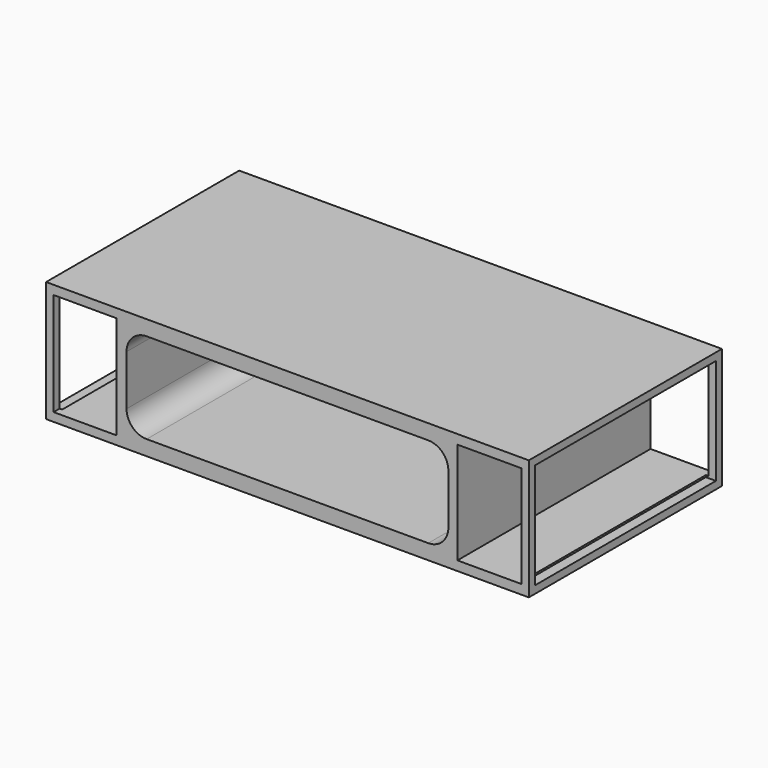
from build123d import *

# Parameters (mm, degrees)
F0_W     = 1219.2
F0_H     = 609.6
F1_DEPTH = 152.4
F3_DEPTH = 1219.2
F4_W     = 161.274815
F4_H     = 257.426903
F4_W_2   = 159.263874
F4_H_2   = 260.308549
F5_DEPTH = 1219.2
F6_W     = 571.5
F6_H     = 266.7
F7_DEPTH = 25.4
F8_W     = 571.5
F8_H     = 266.7
F9_DEPTH = 25.4


with BuildPart() as f1:
    # F0 (on Top) → F1 (new body, symmetric)
    with BuildSketch(Plane.XY):
        Rectangle(F0_W, F0_H)
    extrude(amount=F1_DEPTH, both=True)

    # F2 (on face) → F3 (cut)
    with BuildSketch(Plane.XZ.offset(304.8)):
        with BuildLine():
            Line((-355.6, -114.3), (355.6, -114.3))
            ThreePointArc((355.6, -114.3), (391.521024, -99.421024), (406.4, -63.5))
            Line((406.4, -63.5), (406.4, 63.5))
            ThreePointArc((406.4, 63.5), (391.521024, 99.421024), (355.6, 114.3))
            Line((355.6, 114.3), (-355.6, 114.3))
            ThreePointArc((-355.6, 114.3), (-391.521024, 99.421024), (-406.4, 63.5))
            Line((-406.4, 63.5), (-406.4, -63.5))
            ThreePointArc((-406.4, -63.5), (-391.521024, -99.421024), (-355.6, -114.3))
        make_face()
    extrude(amount=-F3_DEPTH, mode=Mode.SUBTRACT)

    # F4 (on face) → F5 (cut)
    with BuildSketch(Plane.XZ.offset(304.8)):
        with Locations((509.912592, 0.053682)):
            Rectangle(F4_W, F4_H)
        with Locations((-510.918063, -0.480272)):
            Rectangle(F4_W_2, F4_H_2)
    extrude(amount=-F5_DEPTH, mode=Mode.SUBTRACT)

    # F6 (on face) → F7 (cut)
    with BuildSketch(Plane.YZ.offset(609.6)):
        Rectangle(F6_W, F6_H)
    extrude(amount=-F7_DEPTH, mode=Mode.SUBTRACT)

    # F8 (on face) → F9 (cut)
    with BuildSketch(Plane(origin=(-609.6, 0, 0), x_dir=(0, -1, 0), z_dir=(-1, 0, 0))):
        Rectangle(F8_W, F8_H)
    extrude(amount=-F9_DEPTH, mode=Mode.SUBTRACT)


solid = f1.part
